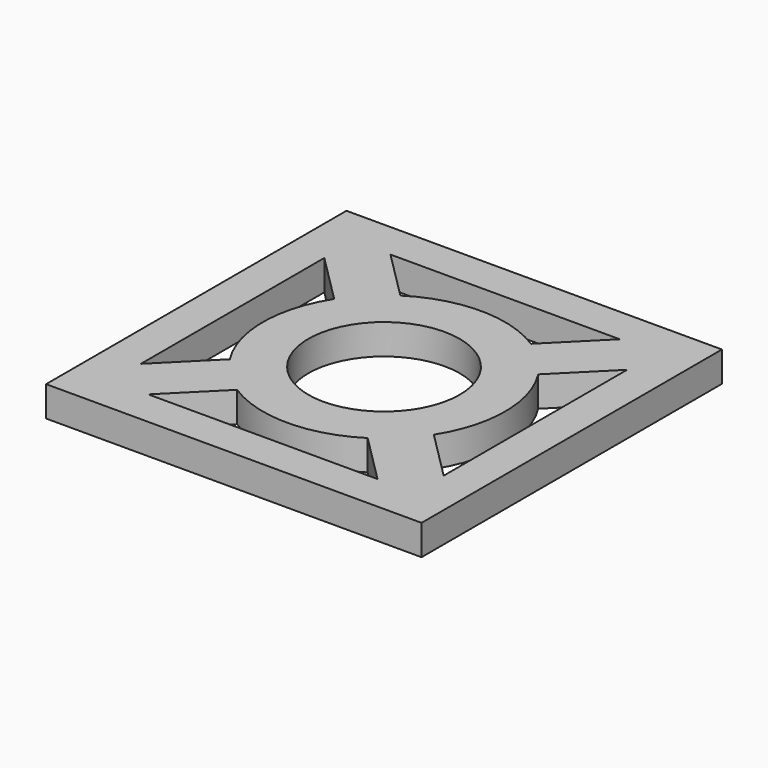
from build123d import *

# Parameters (mm, degrees)
F0_W     = 39.37
F0_H     = 39.37
F0_R     = 7.9375
F1_DEPTH = 3.175


with BuildPart() as f1:
    # F0 (on Top) → F1 (new body)
    with BuildSketch(Plane.XY):
        Rectangle(F0_W, F0_H)
        with BuildLine():
            Line((12.02193, -15.875), (-12.02193, -15.875))
            Line((-12.02193, -15.875), (-6.844637, -10.697707))
            ThreePointArc((-6.844637, -10.697707), (0, -12.7), (6.844637, -10.697707))
            Line((6.844637, -10.697707), (12.02193, -15.875))
        make_face(mode=Mode.SUBTRACT)
        with BuildLine():
            Line((-15.875, 12.02193), (-10.697707, 6.844637))
            ThreePointArc((-10.697707, 6.844637), (-12.7, 0), (-10.697707, -6.844637))
            Line((-10.697707, -6.844637), (-15.875, -12.02193))
            Line((-15.875, -12.02193), (-15.875, 12.02193))
        make_face(mode=Mode.SUBTRACT)
        Circle(F0_R, mode=Mode.SUBTRACT)
        with BuildLine():
            Line((10.697707, 6.844637), (15.875, 12.02193))
            Line((15.875, 12.02193), (15.875, -12.02193))
            Line((15.875, -12.02193), (10.697707, -6.844637))
            ThreePointArc((10.697707, -6.844637), (12.7, 0), (10.697707, 6.844637))
        make_face(mode=Mode.SUBTRACT)
        with BuildLine():
            Line((-6.844637, 10.697707), (-12.02193, 15.875))
            Line((-12.02193, 15.875), (12.02193, 15.875))
            Line((12.02193, 15.875), (6.844637, 10.697707))
            ThreePointArc((6.844637, 10.697707), (0, 12.7), (-6.844637, 10.697707))
        make_face(mode=Mode.SUBTRACT)
    extrude(amount=F1_DEPTH)


solid = f1.part
